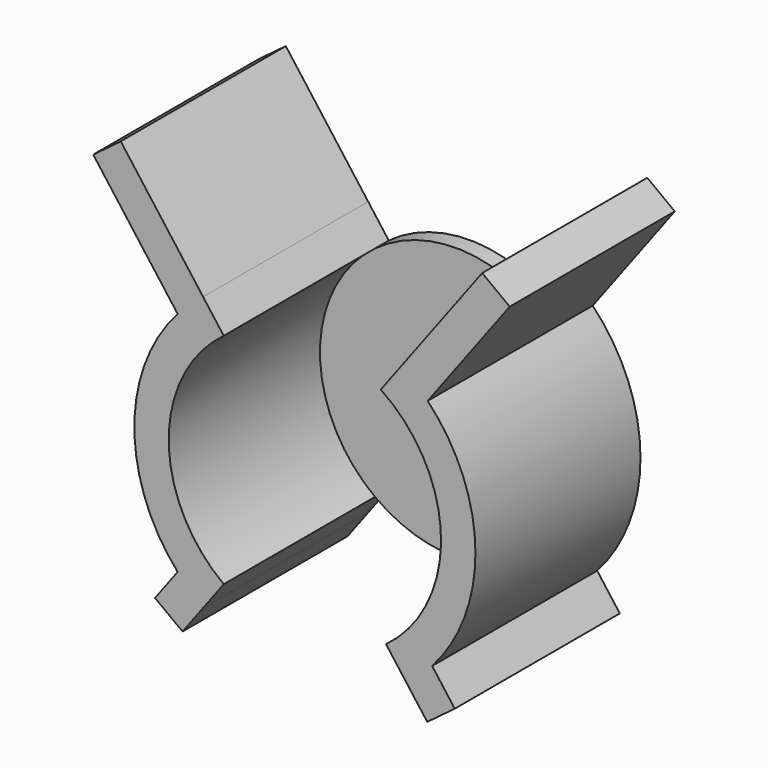
from build123d import *

# Parameters (mm, degrees)
F1_DEPTH      = 38.1
F2_R          = 50.292
F3_DEPTH      = 38.1
F3_DEPTH_BACK = 31.75
F4_R          = 3.175
F5_DEPTH      = 38.101
F6_W          = 7.948064871
F6_H          = 11.407840997
F7_DEPTH      = 25.4


with BuildPart() as f1:
    # F0 (on Front) → F1 (new body, symmetric)
    with BuildSketch(Plane.XZ):
        with BuildLine():
            ThreePointArc((-39.1949844139, 31.5125127655), (-34.8668765946, 36.2434294809), (-29.972, 40.38520125))
            Line((-29.972, 40.38520125), (-37.5791103585, 50.55494564))
            ThreePointArc((-37.5791103585, 50.55494564), (-42.506880267, 46.4882479125), (-46.9973581988, 41.9432996596))
            Line((-46.9973581988, 41.9432996596), (-39.1949844139, 31.5125127655))
        make_face()
        with BuildLine():
            ThreePointArc((-46.9973581988, 41.9432996596), (-42.506880267, 46.4882479125), (-37.5791103585, 50.55494564))
            Line((-37.5791103585, 50.55494564), (-68.0073361401, 91.2336349005))
            Line((-68.0073361401, 91.2336349005), (-78.1770228702, 83.6265676724))
            Line((-78.1770228702, 83.6265676724), (-46.9973581988, 41.9432996596))
        make_face()
        with BuildLine():
            ThreePointArc((35.649530109, 51.9336409951), (40.7121086164, 48.067829949), (45.3583906555, 43.7105074455))
            Line((45.3583906555, 43.7105074455), (75.6600814431, 84.2200354233))
            Line((75.6600814431, 84.2200354233), (65.490394713, 91.8271026513))
            Line((65.490394713, 91.8271026513), (35.649530109, 51.9336409951))
        make_face()
        with BuildLine():
            Line((46.9973581988, -41.9432996596), (39.1949844139, -31.5125127655))
            ThreePointArc((39.1949844139, -31.5125127655), (34.8668765946, -36.2434294809), (29.972, -40.38520125))
            Line((29.972, -40.38520125), (37.5791103585, -50.55494564))
            ThreePointArc((37.5791103585, -50.55494564), (42.506880267, -46.4882479125), (46.9973581988, -41.9432996596))
        make_face()
        with BuildLine():
            Line((55.3558211861, -53.1175074821), (46.9973581988, -41.9432996596))
            ThreePointArc((46.9973581988, -41.9432996596), (42.506880267, -46.4882479125), (37.5791103585, -50.55494564))
            Line((37.5791103585, -50.55494564), (45.186134456, -60.7245747102))
            Line((45.186134456, -60.7245747102), (55.3558211861, -53.1175074821))
        make_face()
        with BuildLine():
            Line((-37.5791103585, -50.55494564), (-29.972, -40.38520125))
            ThreePointArc((-29.972, -40.38520125), (-34.8668765946, -36.2434294809), (-39.1949844139, -31.5125127655))
            Line((-39.1949844139, -31.5125127655), (-46.9973581988, -41.9432996596))
            ThreePointArc((-46.9973581988, -41.9432996596), (-42.506880267, -46.4882479125), (-37.5791103585, -50.55494564))
        make_face()
        with BuildLine():
            Line((-45.186134456, -60.7245747102), (-37.5791103585, -50.55494564))
            ThreePointArc((-37.5791103585, -50.55494564), (-42.506880267, -46.4882479125), (-46.9973581988, -41.9432996596))
            Line((-46.9973581988, -41.9432996596), (-55.3558211861, -53.1175074821))
            Line((-55.3558211861, -53.1175074821), (-45.186134456, -60.7245747102))
        make_face()
        with BuildLine():
            ThreePointArc((28.0345791239, 41.7534146789), (33.0960785887, 37.867332175), (37.624745303, 33.3716017728))
            Line((37.624745303, 33.3716017728), (45.3583906555, 43.7105074455))
            ThreePointArc((45.3583906555, 43.7105074455), (40.7121086164, 48.067829949), (35.649530109, 51.9336409951))
            Line((35.649530109, 51.9336409951), (28.0345791239, 41.7534146789))
        make_face()
        with BuildLine():
            ThreePointArc((-39.1949844139, -31.5125127655), (-50.292, 0), (-39.1949844139, 31.5125127655))
            Line((-39.1949844139, 31.5125127655), (-46.9973581988, 41.9432996596))
            ThreePointArc((-46.9973581988, 41.9432996596), (-62.992, 0), (-46.9973581988, -41.9432996596))
            Line((-46.9973581988, -41.9432996596), (-39.1949844139, -31.5125127655))
        make_face()
        with BuildLine():
            ThreePointArc((37.624745303, 33.3716017728), (47.0186609485, 17.8474308126), (50.292, 0))
            ThreePointArc((50.292, 0), (47.4366916012, -16.704656654), (39.1949844139, -31.5125127655))
            Line((39.1949844139, -31.5125127655), (46.9973581988, -41.9432996596))
            ThreePointArc((46.9973581988, -41.9432996596), (58.8576658204, -22.444759704), (62.992, 0))
            ThreePointArc((62.992, 0), (58.4174965578, 23.5666747742), (45.3583906555, 43.7105074455))
            Line((45.3583906555, 43.7105074455), (37.624745303, 33.3716017728))
        make_face()
        with BuildLine():
            ThreePointArc((39.1949844139, -31.5125127655), (47.4366916012, -16.704656654), (50.292, 0))
            ThreePointArc((50.292, 0), (47.0186609485, 17.8474308126), (37.624745303, 33.3716017728))
            ThreePointArc((37.624745303, 33.3716017728), (33.0960785887, 37.867332175), (28.0345791239, 41.7534146789))
            ThreePointArc((28.0345791239, 41.7534146789), (-1.1859181715, 50.2780156936), (-29.972, 40.38520125))
            ThreePointArc((-29.972, 40.38520125), (-34.8668765946, 36.2434294809), (-39.1949844139, 31.5125127655))
            ThreePointArc((-39.1949844139, 31.5125127655), (-50.292, 0), (-39.1949844139, -31.5125127655))
            ThreePointArc((-39.1949844139, -31.5125127655), (-34.8668765946, -36.2434294809), (-29.972, -40.38520125))
            ThreePointArc((-29.972, -40.38520125), (0, -50.292), (29.972, -40.38520125))
            ThreePointArc((29.972, -40.38520125), (34.8668765946, -36.2434294809), (39.1949844139, -31.5125127655))
        make_face()
    extrude(amount=F1_DEPTH, both=True)

    # F2 (on Front) → F3 (cut, two sides)
    with BuildSketch(Plane.XZ) as f3_sk:
        Circle(F2_R)
    extrude(amount=F3_DEPTH, mode=Mode.SUBTRACT)
    extrude(f3_sk.sketch, amount=-F3_DEPTH_BACK, mode=Mode.SUBTRACT)

    # F4 (on Front) → F5 (cut, through all)
    with BuildSketch(Plane.XZ):
        Circle(F4_R)
    extrude(amount=-F5_DEPTH, mode=Mode.SUBTRACT)

    # F6 (on Right) → F7 (join, symmetric)
    with BuildSketch(Plane.YZ):
        Polygon((37.9081480205, 31.9281220436), (37.8097093926, 20.3845500946), (43.4490628541, 20.3845500946), (43.547091421, 31.8800355541), align=None)
        Polygon((43.4490628541, 20.3845500946), (37.8097093926, 20.3845500946), (37.8097093926, -20.3845500946), (45.7577742636, -20.3845500946), (61.4949830113, -20.3845500946), (61.4949830113, 20.3845500946), align=None)
        with Locations((41.7837418281, -26.0884705931)):
            Rectangle(F6_W, F6_H)
    extrude(amount=F7_DEPTH, both=True)


solid = f1.part
